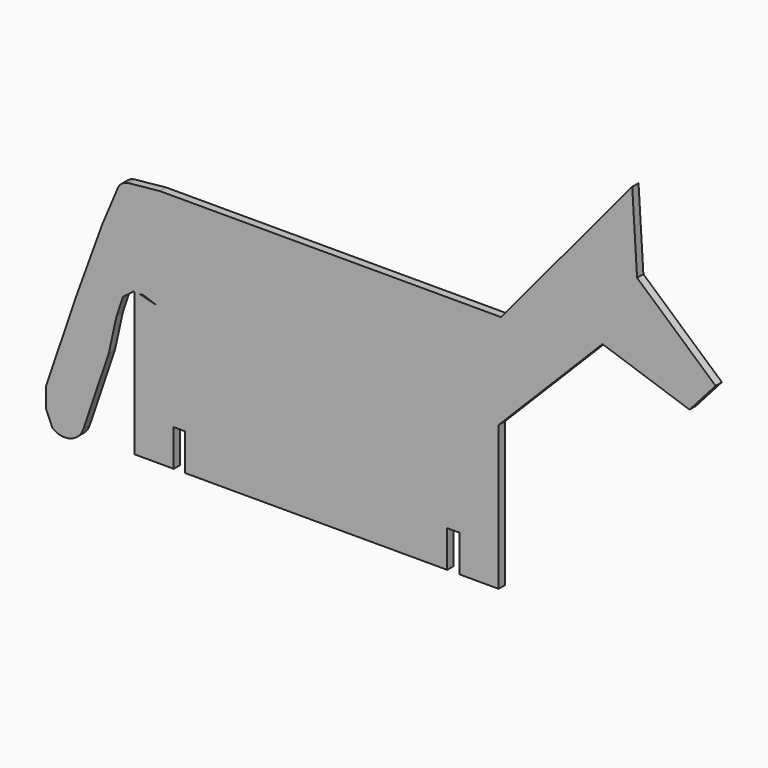
from build123d import *

# Parameters (mm, degrees)
F1_DEPTH = 3
F2_DEPTH = 3


with BuildPart() as f1:
    # F0 (on Front) → F1 (new body)
    with BuildSketch(Plane.XZ):
        with BuildLine():
            Line((52.7068123221, 67.9570013285), (-77.2931876779, 67.9570013285))
            Line((-77.2931876779, 67.9570013285), (-89.2639196203, 66.7380527995))
            ThreePointArc((-89.2639196203, 66.7380527995), (-91.7316731318, 65.7829428457), (-93.3663876923, 63.7021375394))
            Line((-93.3663876923, 63.7021375394), (-99.1941262898, 49.8450988929))
            Line((-99.1941262898, 49.8450988929), (-109.0870224739, 22.5846769392))
            Line((-109.0870224739, 22.5846769392), (-120.6715287069, -11.5004989491))
            Line((-120.6715287069, -11.5004989491), (-120.6715287069, -19.3318230512))
            Line((-120.6715287069, -19.3318230512), (-118.2102517237, -24.9256293032))
            ThreePointArc((-118.2102517237, -24.9256293032), (-111.4038296451, -26.1471340573), (-106.4409637677, -21.3315948706))
            Line((-106.4409637677, -21.3315948706), (-96.8187674333, 7.0834247089))
            Line((-96.8187674333, 7.0834247089), (-93.8294616156, 20.6357413095))
            Line((-93.8294616156, 20.6357413095), (-91.3480535534, 27.9635130805))
            Line((-91.3480535534, 27.9635130805), (-87.3968608702, 30.9696110895))
            Line((-87.3968608702, 30.9696110895), (-87.0189213753, 30.9696110895))
            Line((-87.0189213753, 30.9696110895), (-87.0189213753, -23.5164099128))
            Line((-87.0189213753, -23.5164099128), (-72.0189213753, -23.5164099128))
            Line((-72.0189213753, -23.5164099128), (-72.0189213753, -9.5164099128))
            Line((-72.0189213753, -9.5164099128), (-67.7953569258, -9.5164099128))
            Line((-67.7953569258, -9.5164099128), (-67.7953569258, -23.5164099128))
            Line((-67.7953569258, -23.5164099128), (32.2046430742, -23.5164099128))
            Line((32.2046430742, -23.5164099128), (32.2046430742, -9.5164099128))
            Line((32.2046430742, -9.5164099128), (36.8044135138, -9.5164099128))
            Line((36.8044135138, -9.5164099128), (36.8044135138, -23.5164099128))
            Line((36.8044135138, -23.5164099128), (51.8044135138, -23.5164099128))
            Line((51.8044135138, -23.5164099128), (51.8044135138, 31.4835900872))
            Line((51.8044135138, 31.4835900872), (91.3881844313, 71.4835900872))
            Line((91.3881844313, 71.4835900872), (124.5390406074, 60.2576943637))
            Line((124.5390406074, 60.2576943637), (134.4878729613, 71.4835900872))
            Line((134.4878729613, 71.4835900872), (104.552151032, 98.0138096975))
            Line((104.552151032, 98.0138096975), (102.7068123221, 127.9570013285))
            Line((102.7068123221, 127.9570013285), (52.7068123221, 67.9570013285))
        make_face()
        Polygon((-85.0534210869, 30.9696110895), (-87.0189213753, 30.9696110895), (-87.0189213753, 31.4835900872), align=None, mode=Mode.SUBTRACT)
        Polygon((-78.5569989721, 29.2707944844), (-85.0534210869, 30.9696110895), (-83.5737233683, 30.9696110895), align=None, mode=Mode.SUBTRACT)
        Polygon((-87.0189213753, 31.4835900872), (-87.0189213753, 30.9696110895), (-85.0534210869, 30.9696110895), align=None)
    extrude(amount=F1_DEPTH)

    # F0 (on Front) → F2 (join)
    with BuildSketch(Plane.XZ):
        with BuildLine():
            Line((52.7068123221, 67.9570013285), (-77.2931876779, 67.9570013285))
            Line((-77.2931876779, 67.9570013285), (-89.2639196203, 66.7380527995))
            ThreePointArc((-89.2639196203, 66.7380527995), (-91.7316731318, 65.7829428457), (-93.3663876923, 63.7021375394))
            Line((-93.3663876923, 63.7021375394), (-99.1941262898, 49.8450988929))
            Line((-99.1941262898, 49.8450988929), (-109.0870224739, 22.5846769392))
            Line((-109.0870224739, 22.5846769392), (-120.6715287069, -11.5004989491))
            Line((-120.6715287069, -11.5004989491), (-120.6715287069, -19.3318230512))
            Line((-120.6715287069, -19.3318230512), (-118.2102517237, -24.9256293032))
            ThreePointArc((-118.2102517237, -24.9256293032), (-111.4038296451, -26.1471340573), (-106.4409637677, -21.3315948706))
            Line((-106.4409637677, -21.3315948706), (-96.8187674333, 7.0834247089))
            Line((-96.8187674333, 7.0834247089), (-93.8294616156, 20.6357413095))
            Line((-93.8294616156, 20.6357413095), (-91.3480535534, 27.9635130805))
            Line((-91.3480535534, 27.9635130805), (-87.3968608702, 30.9696110895))
            Line((-87.3968608702, 30.9696110895), (-87.0189213753, 30.9696110895))
            Line((-87.0189213753, 30.9696110895), (-87.0189213753, -23.5164099128))
            Line((-87.0189213753, -23.5164099128), (-72.0189213753, -23.5164099128))
            Line((-72.0189213753, -23.5164099128), (-72.0189213753, -9.5164099128))
            Line((-72.0189213753, -9.5164099128), (-67.7953569258, -9.5164099128))
            Line((-67.7953569258, -9.5164099128), (-67.7953569258, -23.5164099128))
            Line((-67.7953569258, -23.5164099128), (32.2046430742, -23.5164099128))
            Line((32.2046430742, -23.5164099128), (32.2046430742, -9.5164099128))
            Line((32.2046430742, -9.5164099128), (36.8044135138, -9.5164099128))
            Line((36.8044135138, -9.5164099128), (36.8044135138, -23.5164099128))
            Line((36.8044135138, -23.5164099128), (51.8044135138, -23.5164099128))
            Line((51.8044135138, -23.5164099128), (51.8044135138, 31.4835900872))
            Line((51.8044135138, 31.4835900872), (91.3881844313, 71.4835900872))
            Line((91.3881844313, 71.4835900872), (124.5390406074, 60.2576943637))
            Line((124.5390406074, 60.2576943637), (134.4878729613, 71.4835900872))
            Line((134.4878729613, 71.4835900872), (104.552151032, 98.0138096975))
            Line((104.552151032, 98.0138096975), (102.7068123221, 127.9570013285))
            Line((102.7068123221, 127.9570013285), (52.7068123221, 67.9570013285))
        make_face()
        Polygon((-85.0534210869, 30.9696110895), (-87.0189213753, 30.9696110895), (-87.0189213753, 31.4835900872), align=None, mode=Mode.SUBTRACT)
        Polygon((-78.5569989721, 29.2707944844), (-85.0534210869, 30.9696110895), (-83.5737233683, 30.9696110895), align=None, mode=Mode.SUBTRACT)
        Polygon((-87.0189213753, 31.4835900872), (-87.0189213753, 30.9696110895), (-85.0534210869, 30.9696110895), align=None)
    extrude(amount=F2_DEPTH)


solid = f1.part
